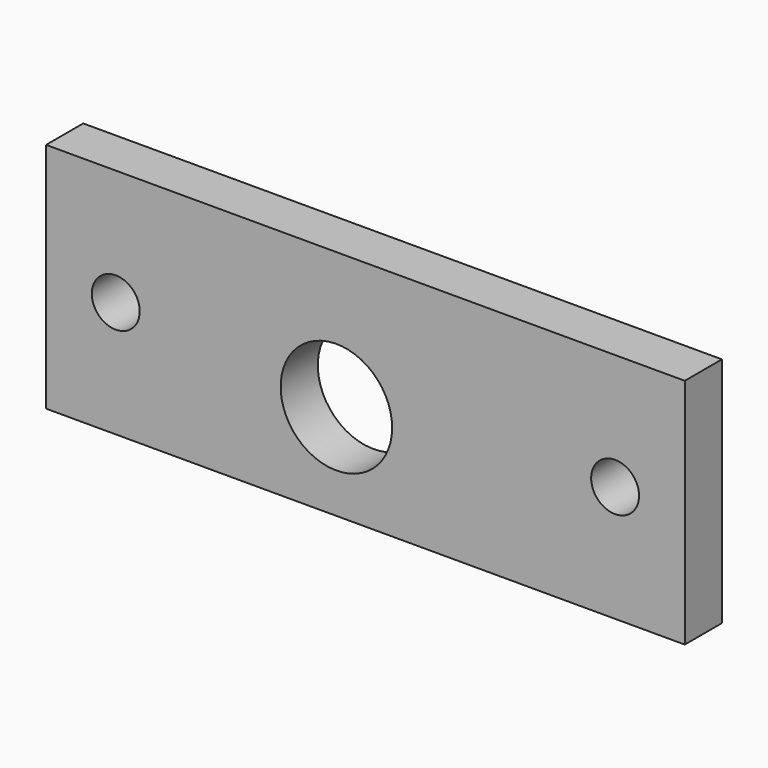
from build123d import *

# Parameters (mm, degrees)
F0_W     = 349.25
F0_H     = 127
F0_R     = 30.48
F0_R_2   = 13.0937
F1_DEPTH = 25.4


with BuildPart() as f1:
    # F0 (on Front) → F1 (new body)
    with BuildSketch(Plane.XZ):
        Rectangle(F0_W, F0_H)
        with Locations((-15.875, -11.176)):
            Circle(F0_R, mode=Mode.SUBTRACT)
        with Locations((-136.525, 0)):
            Circle(F0_R_2, mode=Mode.SUBTRACT)
        with Locations((136.525, 0)):
            Circle(F0_R_2, mode=Mode.SUBTRACT)
    extrude(amount=F1_DEPTH)


solid = f1.part
